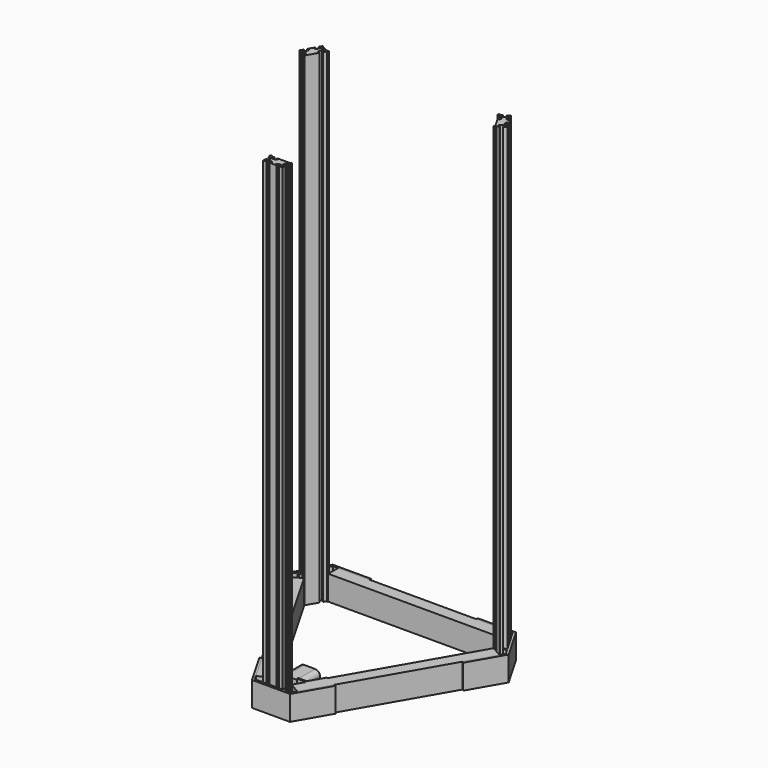
from build123d import *

# Parameters (mm, degrees)
F1_DEPTH  = 50.8
F3_DEPTH  = 1000
F5_DEPTH  = 50.8
F10_DEPTH = 50.8
F15_W     = 42.3
F15_H     = 42.3
F16_DEPTH = 48
F17_R     = 2.4395
F18_DEPTH = 24
F19_R     = 10


with BuildPart() as f1:
    # F0 (on Top) → F1 (new body)
    with BuildSketch(Plane.XY):
        Polygon((-37.5, 0), (-75.180928, 65.265282), (-78.64503, 63.265282), (-39.232051, -5), (39.232051, -5), (78.64503, 63.265282), (75.180928, 65.265282), (37.5, 0), (23.5, 0), (23.5, 7), (20, 7), (20, 0), (-20, 0), (-20, 7), (-23.5, 7), (-23.5, 0), align=None)
    extrude(amount=F1_DEPTH)


with BuildPart() as f3:
    # F2 (on Top) → F3 (new body)
    with BuildSketch(Plane.XY):
        Polygon((-19.999996, 20.000011), (-19.999996, 22.375012), (-20.799969, 22.375012), (-23.174984, 19.999998), (-20.799995, 17.625009), (-19.999996, 17.625009), (-19.999996, 12.999999), (-18, 12.999999), (-18, 15.999993), (-17.060657, 15.999993), (-13.999983, 12.939344), (-13.999983, 7.060667), (-17.060657, 3.999992), (-18, 3.999992), (-18, 7.000011), (-19.999996, 7.000011), (-19.999996, 0), (-12.999985, 0), (-12.999985, 1.999996), (-15.999979, 1.999996), (-15.999979, 2.939339), (-12.93933, 6.000013), (-7.060652, 6.000013), (-3.999977, 2.939339), (-3.999977, 1.999996), (-6.999997, 1.999996), (-6.999997, 0), (7.000001, 0), (7.000001, 1.999996), (4.000007, 1.999996), (4.000007, 2.939339), (7.060681, 6.000013), (12.939359, 6.000013), (16.000008, 2.939339), (16.000008, 1.999996), (13.000014, 1.999996), (13.000014, 0), (20, 0), (20, 7.000011), (18.000004, 7.000011), (18.000004, 3.999992), (17.060661, 3.999992), (14.000012, 7.060667), (14.000012, 12.939344), (17.060661, 15.999993), (18.000004, 15.999993), (18.000004, 12.999999), (20, 12.999999), (20, 17.625009), (20.800024, 17.625009), (23.175013, 19.999998), (20.799998, 22.375012), (20, 22.375012), (20, 20.000011), (-6.999997, 20.000011), (-6.999997, 18.000015), (-3.999977, 18.000015), (-3.999977, 17.060672), (-7.060652, 13.999997), (-12.93933, 13.999997), (-15.999979, 17.060672), (-15.999979, 18.000015), (-12.999985, 18.000015), (-12.999985, 20.000011), align=None)
    extrude(amount=F3_DEPTH)


with BuildPart() as f5:
    # F4 (on face) → F5 (new body, through all)
    with BuildSketch(Plane.XY.offset(50.8)):
        Polygon((217.980153, 312.600795), (195.983108, 325.300795), (20.983108, 22.191903), (42.980153, 9.491903), align=None)
    extrude(amount=-F5_DEPTH)


with BuildPart() as f6_1:
    # F6: instance of F5
    add(f5.part.mirror(Plane.YZ))


with BuildPart() as f8_1:
    # F8: instance of F6_1
    add(f6_1.part.mirror(Plane(origin=(119.48163, 167.396349, 25.4), x_dir=(-0.866025, 0.5, 0), z_dir=(0.5, 0.866025, 0))))


with BuildPart() as f10:
    # F9 (on Top) → F10 (new body)
    with BuildSketch(Plane.XY):
        Polygon((33.574024, 44.000011), (52.084387, 76.0609), (49.919324, 77.3109), (32.419324, 47.000011), (14.419324, 47.000011), (14.419324, 44.000011), align=None)
        Polygon((-52.084387, 76.0609), (-33.574024, 44.000011), (-14.419324, 44.000011), (-14.419324, 47.000011), (-32.419324, 47.000011), (-49.919324, 77.3109), align=None)
    extrude(amount=F10_DEPTH)


with BuildPart() as f11_1:
    # F11: instance of F1
    add(f1.part.mirror(Plane(origin=(119.48163, 167.396349, 25.4), x_dir=(-0.866025, 0.5, 0), z_dir=(0.5, 0.866025, 0))))


with BuildPart() as f12_1:
    # F12: instance of F11_1
    add(f11_1.part.mirror(Plane.YZ))


with BuildPart() as f13_1:
    # F13: instance of F3
    add(f3.part.mirror(Plane(origin=(119.48163, 167.396349, 25.4), x_dir=(-0.866025, 0.5, 0), z_dir=(0.5, 0.866025, 0))))


with BuildPart() as f14_1:
    # F14: instance of F13_1
    add(f13_1.part.mirror(Plane.YZ))


with BuildPart() as f16:
    # F15 (on face) → F16 (new body)
    with BuildSketch(Plane(origin=(0, 47.000011, 0), x_dir=(-1, 0, 0), z_dir=(0, 1, 0))):
        with Locations((0, 25.4)):
            Rectangle(F15_W, F15_H)
    extrude(amount=F16_DEPTH)

    # F17 (on face) → F18 (join)
    with BuildSketch(Plane.XZ.offset(-47.000011)):
        with Locations((0, 25.4)):
            Circle(F17_R)
    extrude(amount=F18_DEPTH)

    # F19
    f19_edges = [f16.edges().sort_by_distance(p)[0] for p in [
        (21.15, 71.000011, 46.55),
        (21.15, 71.000011, 4.25),
        (-21.15, 71.000011, 4.25),
        (-21.15, 71.000011, 46.55),
    ]]
    fillet(f19_edges, radius=F19_R)


solid = Compound([f1.part, f3.part, f5.part, f6_1.part, f8_1.part, f10.part, f11_1.part, f12_1.part, f13_1.part, f14_1.part, f16.part])
